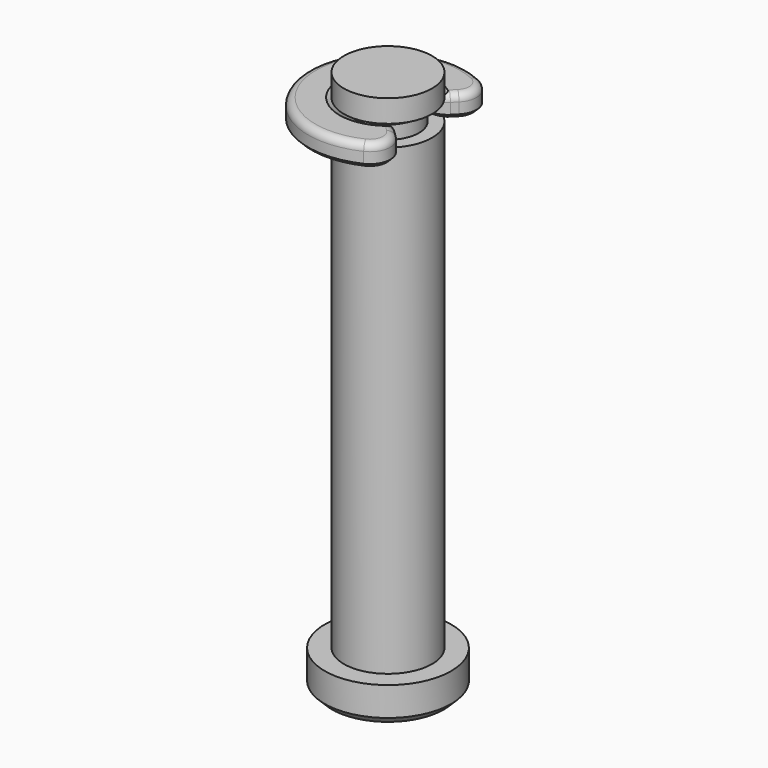
from build123d import *

# Parameters (mm, degrees)
F0_R          = 8.73125
F1_DEPTH      = 5
F2_R          = 6.096
F3_DEPTH      = 70
F6_SIZE       = 1
F8_ANGLE_BACK = 135
F8_ANGLE      = 270
F9_R          = 2.8160594098
F10_SIZE      = 0.5
F11_R         = 1


with BuildPart() as f1:
    # F0 (on Top) → F1 (new body)
    with BuildSketch(Plane.XY):
        Circle(F0_R)
    extrude(amount=F1_DEPTH)

    # F2 (on face) → F3 (join)
    with BuildSketch(Plane.XY.offset(5)):
        Circle(F2_R)
    extrude(amount=F3_DEPTH)

    # F4 (on Front) → F5 (revolve, cut)
    with BuildSketch(Plane.XZ):
        Polygon((-6.2804493131, 72), (-6.2804493131, 69), (-4.2804493131, 69), (-4.2804493131, 70.8452994616), align=None)
    revolve(axis=Axis((0, 0, 75), (0, 0, 1)), mode=Mode.SUBTRACT)

    # F6
    f6_edges = [f1.edges().sort_by_distance(p)[0] for p in [
        (-8.73125, 0, 0),
    ]]
    chamfer(f6_edges, length=F6_SIZE)


with BuildPart() as f8:
    # F7 (on Front) → F8 (revolve)
    with BuildSketch(Plane.XZ, mode=Mode.PRIVATE) as f8_sk:
        Polygon((-11.0179760789, 71.9328141614), (-11.0179760789, 68.9328141614), (-4.5179760789, 68.9328141614), (-4.5179760789, 70.6889052692), (-6.6724894802, 71.9328141614), align=None)
    revolve(f8_sk.sketch.rotate(Axis((0, 0, 75), (0, 0, 1)), -F8_ANGLE_BACK), axis=Axis((0, 0, 75), (0, 0, 1)), revolution_arc=F8_ANGLE)

    # F9
    f9_edges = [f8.edges().sort_by_distance(p)[0] for p in [
        (3.194692, 3.194692, 69.81086),
        (3.194692, -3.194692, 69.81086),
        (7.790886, 7.790886, 70.432814),
        (7.790886, -7.790886, 70.432814),
    ]]
    fillet(f9_edges, radius=F9_R)

    # F10
    f10_edges = [f8.edges().sort_by_distance(p)[0] for p in [
        (-11.017976, 0, 68.932814),
    ]]
    chamfer(f10_edges, length=F10_SIZE)

    # F11
    f11_edges = [f8.edges().sort_by_distance(p)[0] for p in [
        (6.228753, -7.929283, 71.932814),
    ]]
    fillet(f11_edges, radius=F11_R)


solid = Compound([f1.part, f8.part])
